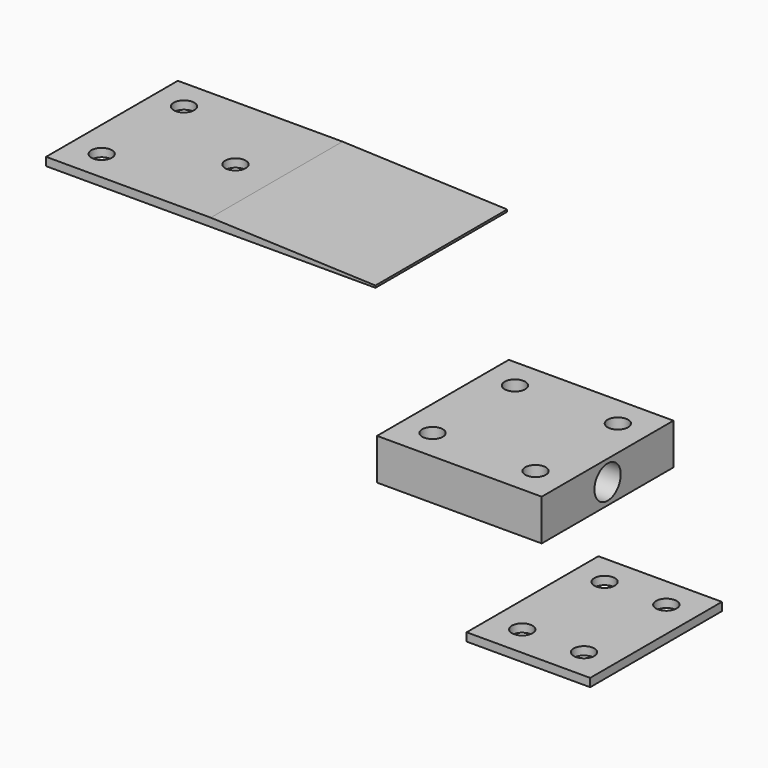
from build123d import *

# Parameters (mm, degrees)
F0_W      = 40
F0_H      = 10
F1_DEPTH  = 20
F3_D      = 8
F5_D      = 5
F6_W      = 30
F6_H      = 2
F7_DEPTH  = 20
F9_D      = 5
F10_W     = 40
F10_H     = 2
F11_DEPTH = 40
F13_D     = 5


with BuildPart() as f1:
    # F0 (on Front) → F1 (new body, symmetric)
    with BuildSketch(Plane.XZ):
        Rectangle(F0_W, F0_H)
    extrude(amount=F1_DEPTH, both=True)

    # F3 (through all)
    with Locations(Plane.YZ.offset(20)):
        with Locations((0, 0)):
            Hole(F3_D / 2)

    # F5 (through all)
    with Locations(Plane.XY.offset(5)):
        with Locations((12.5, 12.5), (-12.5, 12.5), (-12.5, -12.5), (12.5, -12.5)):
            Hole(F5_D / 2)


with BuildPart() as f7:
    # F6 (on Front) → F7 (new body, symmetric)
    with BuildSketch(Plane.XZ):
        with Locations((16.772058, -30.915891)):
            Rectangle(F6_W, F6_H)
    extrude(amount=F7_DEPTH, both=True)

    # F9 (through all)
    with Locations(Plane.XY.offset(-29.915891)):
        with Locations((9.272058, 12.5), (9.272058, -12.5), (24.272058, -12.5), (24.272058, 12.5)):
            Hole(F9_D / 2)


with BuildPart() as f11:
    # F10 (on Front) → F11 (new body)
    with BuildSketch(Plane.XZ):
        with Locations((-64.377942, 50.859711)):
            Rectangle(F10_W, F10_H)
        Polygon((-44.377942, 51.859711), (-44.377942, 49.859711), (-4.377942, 49.859711), (-4.377942, 50.359711), align=None)
    extrude(amount=F11_DEPTH)

    # F13 (through all)
    with Locations(Plane.XY.offset(51.859711)):
        with Locations((-76.877942, -7.5), (-76.877942, -32.5), (-54.377942, -20)):
            Hole(F13_D / 2)


solid = Compound([f1.part, f7.part, f11.part])
